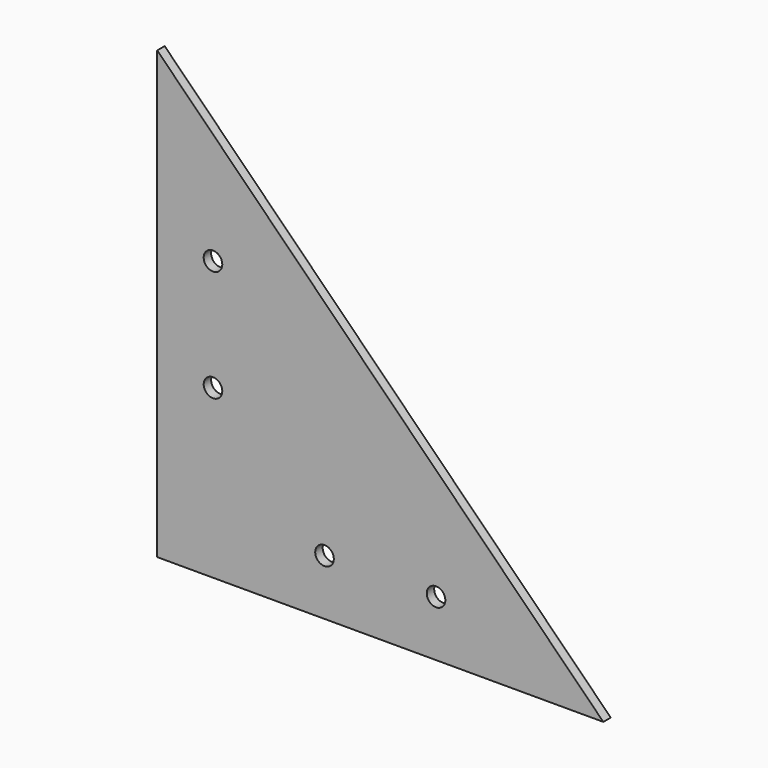
from build123d import *

# Parameters (mm, degrees)
F1_DEPTH = 3.175
F2_R     = 3.175
F3_DEPTH = 76.2


with BuildPart() as f1:
    # F0 (on Front) → F1 (new body)
    with BuildSketch(Plane.XZ):
        Polygon((0, 152.4), (0, 0), (152.4, 0), align=None)
    extrude(amount=F1_DEPTH)

    # F2 (on Front) → F3 (cut)
    with BuildSketch(Plane.XZ):
        with Locations((19.05, 57.15)):
            Circle(F2_R)
        with Locations((19.05, 95.25)):
            Circle(F2_R)
        with Locations((57.15, 19.05)):
            Circle(F2_R)
        with Locations((95.25, 19.05)):
            Circle(F2_R)
    extrude(amount=F3_DEPTH, mode=Mode.SUBTRACT)


solid = f1.part
